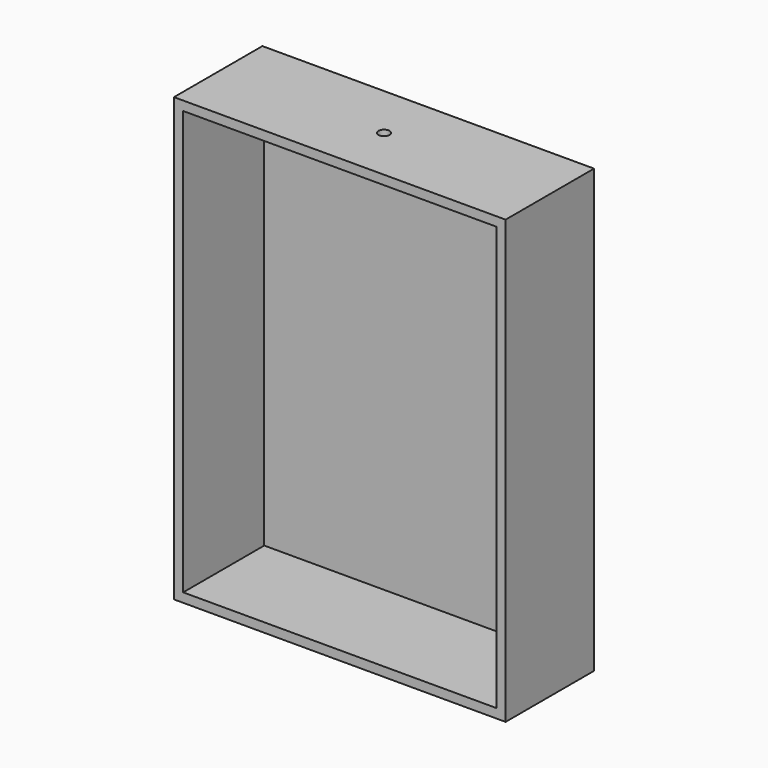
from build123d import *

# Parameters (mm, degrees)
F0_W     = 90
F0_H     = 120
F1_DEPTH = 30
F2_T     = -2.5
F3_R     = 1.5
F4_DEPTH = 25


with BuildPart() as f1:
    # F0 (on Front) → F1 (new body)
    with BuildSketch(Plane.XZ):
        with Locations((-45, 60)):
            Rectangle(F0_W, F0_H)
    extrude(amount=F1_DEPTH)

    # F2
    f2_openings = [f1.faces().sort_by_distance(p)[0] for p in [
        (-45, -30, 60),
    ]]
    offset(amount=F2_T, openings=f2_openings)

    # F3 (on face) → F4 (cut)
    with BuildSketch(Plane.XY.offset(120)):
        with Locations((-45, -15)):
            Circle(F3_R)
    extrude(amount=-F4_DEPTH, mode=Mode.SUBTRACT)


solid = f1.part
